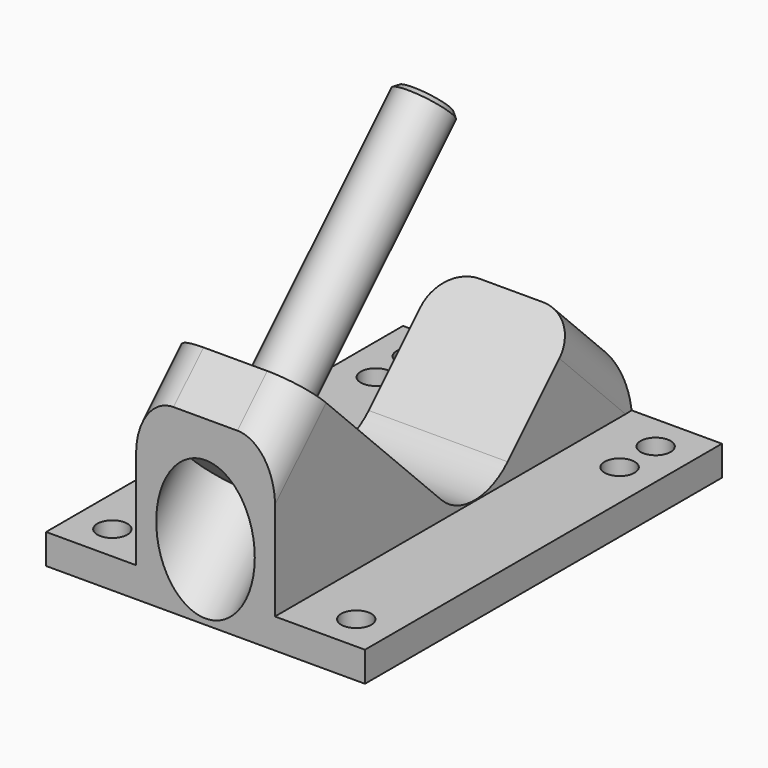
from build123d import *

# Parameters (mm, degrees)
F1_DEPTH = 27.0002
F2_R     = 9.906
F3_W     = 75.565
F3_H     = 31.9594877579
F4_DEPTH = 15.24
F5_R     = 2.54
F6_DEPTH = 5.081
F8_R     = 6.35
F13_SIZE = 0.762


with BuildPart() as f1:
    # F0 (on Right) → F1 (new body)
    with BuildSketch(Plane.YZ):
        Polygon((0, 30.7152561211), (0, 0), (75.565, 0), (75.565, 12.7), (64.6958964237, 23.5691035763), (42.2452561211, 1.1184632736), (6.3242316368, 37.0394877579), align=None)
    extrude(amount=F1_DEPTH)

    # F2
    f2_edges = [f1.edges().sort_by_distance(p)[0] for p in [
        (13.5001, 42.245256, 1.118463),
    ]]
    fillet(f2_edges, radius=F2_R)

    # F3 (on face) → F4 (cut)
    with BuildSketch(Plane.YZ.offset(27.0002)):
        with Locations((37.7825, 21.0597438789)):
            Rectangle(F3_W, F3_H)
    extrude(amount=-F4_DEPTH, mode=Mode.SUBTRACT)

    # F5 (on face) → F6 (cut, through all)
    with BuildSketch(Plane.XY.offset(5.08)):
        with Locations((20.6502, 69.469)):
            Circle(F5_R)
        with Locations((20.6502, 61.849)):
            Circle(F5_R)
        with Locations((20.6502, 6.096)):
            Circle(F5_R)
    extrude(amount=-F6_DEPTH, mode=Mode.SUBTRACT)

    # F7: F1 across face


with BuildPart() as f1_1:
    add(f1.part)
    add(f1.part.mirror(Plane(origin=(0, 31.4337361572, 11.6287579026), x_dir=(0, 1, 0), z_dir=(-1, 0, 0))))

    # F8
    f8_edges = [f1_1.edges().sort_by_distance(p)[0] for p in [
        (-11.7602, 3.162116, 33.877372),
        (11.7602, 3.162116, 33.877372),
        (-11.7602, 70.130448, 18.134552),
        (11.7602, 70.130448, 18.134552),
    ]]
    fillet(f8_edges, radius=F8_R)

    # F9 (on Right) → F10 (revolve, cut)
    with BuildSketch(Plane.YZ):
        Polygon((15.3044877579, 28.0592316368), (11.9368917125, 31.4268276822), (5.2016996217, 24.6916355914), (2.6692673955, 27.2240678175), (-12.277400211, 12.277400211), (-6.3773719395, 6.3773719395), align=None)
    revolve(axis=Axis((0, 22.0396798487, 34.7944237276), (0, 0.7071067812, 0.7071067812)), mode=Mode.SUBTRACT)


with BuildPart() as f12:
    # F11 (on Right) → F12 (revolve)
    with BuildSketch(Plane.YZ):
        Polygon((11.9368917125, 31.4268276822), (5.2016996217, 24.6916355914), (2.9566355914, 26.9366996217), (1.1605843672, 25.1406483974), (6.7732444428, 19.5279883218), (46.7353841816, 59.4901280605), (43.3677881362, 62.8577241059), align=None)
    revolve(axis=Axis((0, 26.7543143122, 39.5090581912), (0, 0.7071067812, 0.7071067812)))

    # F13
    f13_edges = [f12.edges().sort_by_distance(p)[0] for p in [
        (0, 50.10298, 56.122532),
    ]]
    chamfer(f13_edges, length=F13_SIZE)


solid = Compound([f1_1.part, f12.part])
